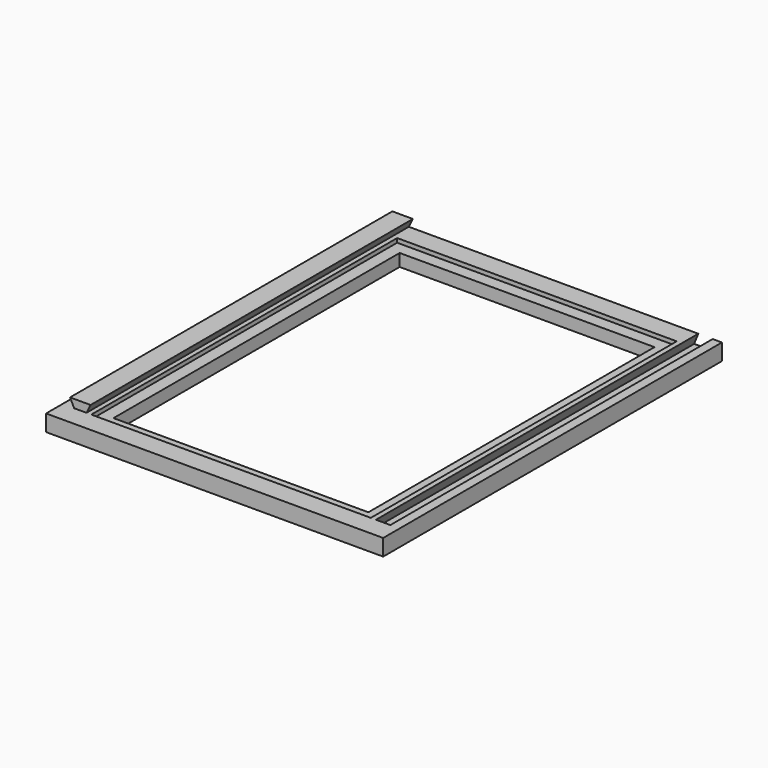
from build123d import *

# Parameters (mm, degrees)
F0_W     = 68
F0_H     = 93
F0_W_2   = 62
F0_H_2   = 87
F1_DEPTH = 3
F0_W_3   = 82
F0_H_3   = 103
F2_DEPTH = 4
F4_DEPTH = 98
F6_DEPTH = 98


with BuildPart() as f1:
    # F0 (on Top) → F1 (new body)
    with BuildSketch(Plane.XY):
        with Locations((34, 46.5)):
            Rectangle(F0_W, F0_H)
        with Locations((34, 46.5)):
            Rectangle(F0_W_2, F0_H_2, mode=Mode.SUBTRACT)
    extrude(amount=F1_DEPTH)

    # F0 (on Top) → F2 (join)
    with BuildSketch(Plane.XY):
        with Locations((34, 46.5)):
            Rectangle(F0_W_3, F0_H_3)
        with Locations((34, 46.5)):
            Rectangle(F0_W, F0_H, mode=Mode.SUBTRACT)
    extrude(amount=F2_DEPTH)

    # F3 (on Front) → F4 (join)
    with BuildSketch(Plane.XZ):
        Polygon((-5.171573, 6), (-4.171573, 4), (-1.171573, 4), (-0.171573, 6), align=None)
    extrude(amount=-F4_DEPTH)

    # F5 (on Front) → F6 (cut)
    with BuildSketch(Plane.XZ):
        Polygon((72.75, 4), (69.25, 4), (68.25, 1.499999), (73.75, 1.499999), align=None)
    extrude(amount=-F6_DEPTH, mode=Mode.SUBTRACT)


solid = f1.part
